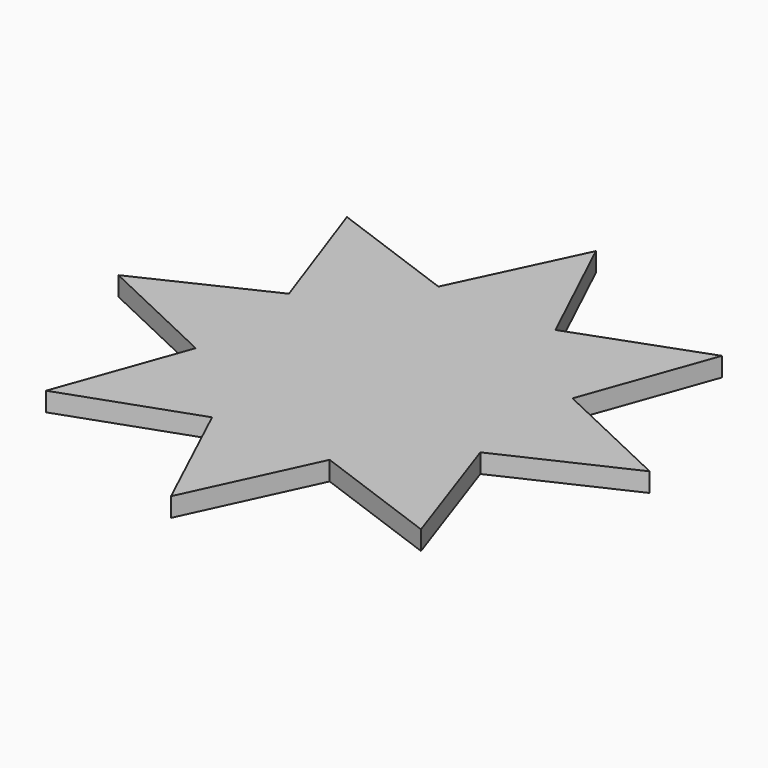
from build123d import *

# Parameters (mm, degrees)
F1_DEPTH = 3.81


with BuildPart() as f1:
    # F0 (on Top) → F1 (new body)
    with BuildSketch(Plane.XY):
        Polygon((-38.740579, 45.335503), (-50.42556, 20.621876), (-76.256154, 30.075876), (-67.12565, 4.18032), (-91.795259, -7.53363), (-66.991906, -19.265085), (-76.242457, -45.05293), (-50.4042, -35.906188), (-38.759752, -60.721386), (-27.126873, -35.650046), (-1.319703, -45.101717), (-10.349424, -18.997615), (14.295969, -7.516973), (-10.517128, 4.22068), (-1.287473, 29.988754), (-27.019147, 20.592051), align=None)
    extrude(amount=F1_DEPTH)


solid = f1.part
